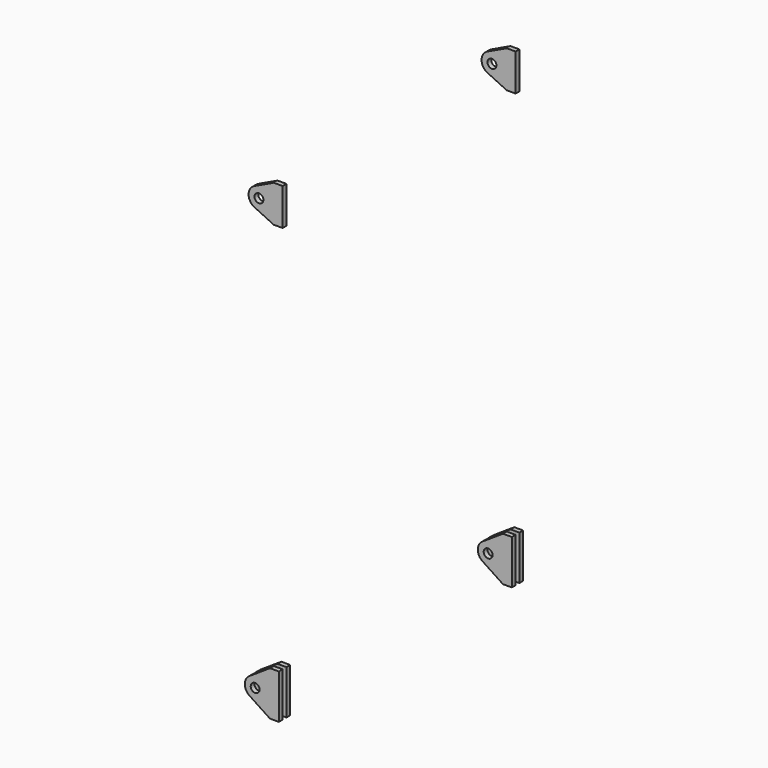
from build123d import *

# Parameters (mm, degrees)
SKETCH008_W      = 150
SKETCH008_H      = 16
EXTRUDE007_DEPTH = 150
SKETCH007_R      = 15
PAD_DEPTH        = 24
SKETCH009_R      = 15
EXTRUDE_DEPTH    = 8


with BuildPart() as extrude007:
    # Sketch008 → Extrude007 (new body)
    with BuildSketch(Plane(origin=(0, 0, 0), x_dir=(1, 0, 0), z_dir=(0, 0, -1))):
        with Locations((975, 0)):
            Rectangle(SKETCH008_W, SKETCH008_H)
    extrude(amount=-EXTRUDE007_DEPTH)


with BuildPart() as cut001:
    # Sketch007 → Pad (new body, symmetric)
    with BuildSketch(Plane.XZ):
        with BuildLine():
            Line((900, 0), (900, 150))
            Line((900, 150), (930, 150))
            Line((930, 150), (999.298323, 104.198882))
            ThreePointArc((999.298323, 45.801118), (1015, 75), (999.298323, 104.198882))
            Line((999.298323, 45.801118), (930, 0))
            Line((930, 0), (900, 0))
        make_face()
        with Locations((980, 75)):
            Circle(SKETCH007_R, mode=Mode.SUBTRACT)
    extrude(amount=PAD_DEPTH, both=True)

    # Cut001: cut Extrude007
    add(extrude007.part, mode=Mode.SUBTRACT)


with BuildPart() as cut001_1:
    # Cut001 placement: moved
    add(cut001.part.moved(Location((0, -492, 0))))


with BuildPart() as compound004:
    # Mirror006: instance of Cut001
    add(cut001_1.part.mirror(Plane(origin=(0, 0, 400), x_dir=(-1, 0, 0), z_dir=(0, -1, 0))))

    # Compound004: union Cut001
    add(cut001_1.part)


with BuildPart() as extrude_body:
    # Sketch009 → Extrude (new body, symmetric)
    with BuildSketch(Plane.XZ):
        with BuildLine():
            Line((900, 1462.5), (900, 1587.5))
            Line((900, 1587.5), (930, 1587.5))
            Line((930, 1587.5), (995.017868, 1556.614295))
            ThreePointArc((995.017868, 1493.385705), (1015, 1525), (995.017868, 1556.614295))
            Line((995.017868, 1493.385705), (930, 1462.5))
            Line((930, 1462.5), (900, 1462.5))
        make_face()
        with Locations((980, 1525)):
            Circle(SKETCH009_R, mode=Mode.SUBTRACT)
    extrude(amount=EXTRUDE_DEPTH, both=True)


with BuildPart() as extrude_body_1:
    # Extrude placement: moved
    add(extrude_body.part.moved(Location((0, -492, 0))))


with BuildPart() as compound006:
    # Mirror: instance of Extrude body
    add(extrude_body_1.part.mirror(Plane(origin=(0, 0, 1500), x_dir=(1, 0, 0), z_dir=(0, 1, 0))))

    # Compound005: union Extrude body
    add(extrude_body_1.part)

    # Compound006: union Compound004
    add(compound004.part)


with BuildPart() as compound006_mirrored:
    # Mirror007: instance of Compound006
    add(compound006.part.mirror(Plane(origin=(0, 0, -1000), x_dir=(0, -1, 0), z_dir=(1, 0, 0))))


solid = compound006_mirrored.part
